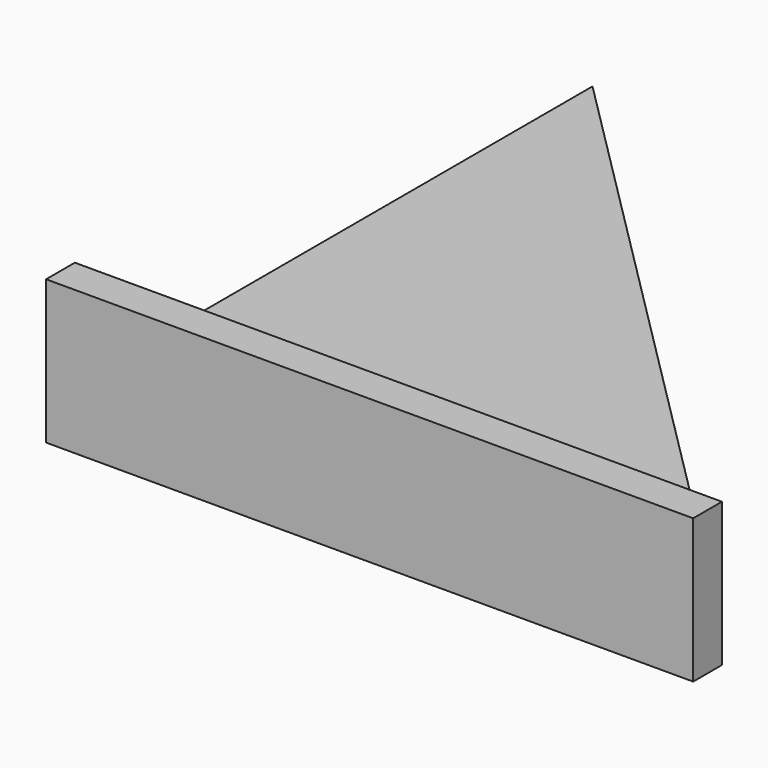
from build123d import *

# Parameters (mm, degrees)
F0_W     = 228.6
F0_H     = 50.8
F1_DEPTH = 12.7
F2_W     = 228.6
F2_H     = 12.7
F3_DEPTH = 228.6
F5_DEPTH = 25.4


with BuildPart() as f1:
    # F0 (on Front) → F1 (new body)
    with BuildSketch(Plane.XZ):
        Rectangle(F0_W, F0_H)
    extrude(amount=F1_DEPTH)

    # F2 (on face) → F3 (join)
    with BuildSketch(Plane(origin=(0, 0, 0), x_dir=(-1, 0, 0), z_dir=(0, 1, 0))):
        with Locations((0, -19.05)):
            Rectangle(F2_W, F2_H)
    extrude(amount=F3_DEPTH)

    # F4 (on face) → F5 (cut)
    with BuildSketch(Plane.XY.offset(-12.7)):
        Polygon((114.3, 228.6), (-114.3, 228.6), (114.3, 0), align=None)
    extrude(amount=-F5_DEPTH, mode=Mode.SUBTRACT)


solid = f1.part
